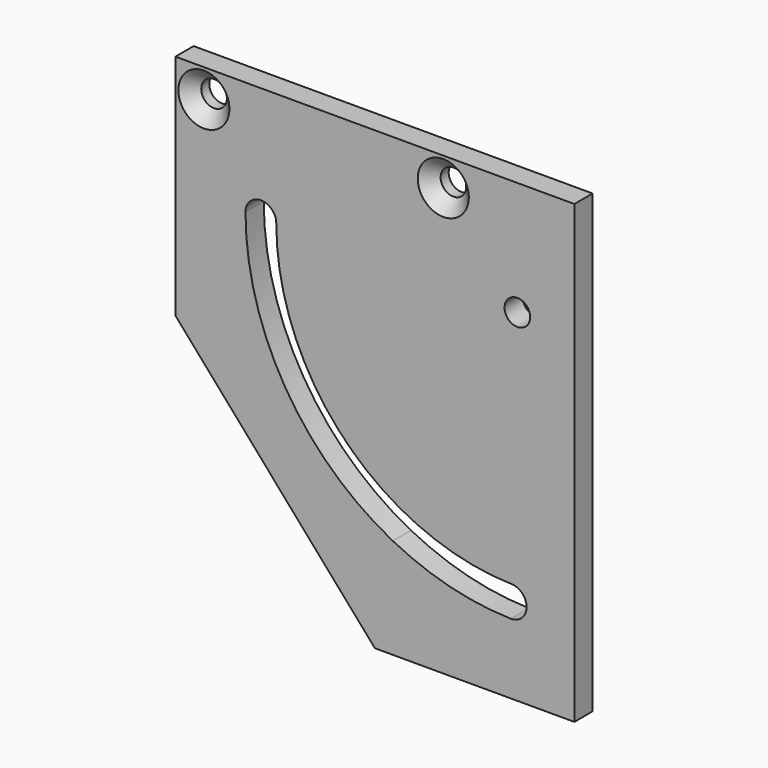
from build123d import *

# Parameters (mm, degrees)
F1_DEPTH       = 4
F2_D           = 4.5
F4_D           = 4.5
F4_CSINK_D     = 8.96
F4_CSINK_ANGLE = 90
F6_DEPTH       = 25


with BuildPart() as f1:
    # F0 (on Front) → F1 (new body)
    with BuildSketch(Plane.XZ):
        Polygon((16.6953813087, 0), (0, 0), (0, -80), (70, -80), (70, 0), (19.6887112585, 0), align=None)
        with BuildLine():
            ThreePointArc((12.3, -20), (13.1196675826, -18.0623854873), (15.081, -17.3012152735))
            ThreePointArc((15.081, -17.3012152735), (16.9376145127, -18.1196675826), (17.7, -20))
            ThreePointArc((17.7, -20), (23.8821053394, -42.0178946606), (40.6214035596, -57.6))
            ThreePointArc((40.6214035596, -57.6), (49.5339421791, -60.9847731931), (58.9781220381, -62.2876550004))
            ThreePointArc((58.9781220381, -62.2876550004), (60.8394880813, -63.0952428188), (61.6128496753, -64.9710875555))
            ThreePointArc((61.6128496753, -64.9710875555), (61.6128842578, -64.9789772549), (61.6128957853, -64.9868670217))
            ThreePointArc((61.6128957853, -64.9868670217), (60.7988821475, -66.9189786751), (58.8476695324, -67.686079043))
            ThreePointArc((58.8476695324, -67.686079043), (48.1978496914, -66.2168718986), (38.1475401842, -62.4))
            ThreePointArc((38.1475401842, -62.4), (19.2713102763, -44.8286897237), (12.3, -20))
        make_face(mode=Mode.SUBTRACT)
    extrude(amount=F1_DEPTH)

    # F2 (through all)
    with Locations(Plane(origin=(0, 0, 0), x_dir=(1, 0, 0), z_dir=(0, 1, 0))):
        with Locations((60, 20)):
            Hole(F2_D / 2)

    # F4 (through all)
    with Locations(Plane.XZ.offset(4)):
        with Locations((5, -5), (47, -5)):
            CounterSinkHole(F4_D / 2, F4_CSINK_D / 2, counter_sink_angle=F4_CSINK_ANGLE)

    # F5 (on face) → F6 (cut)
    with BuildSketch(Plane.XZ.offset(4)):
        Polygon((35, -80), (0, -40), (0, -80), align=None)
    extrude(amount=-F6_DEPTH, mode=Mode.SUBTRACT)


solid = f1.part
